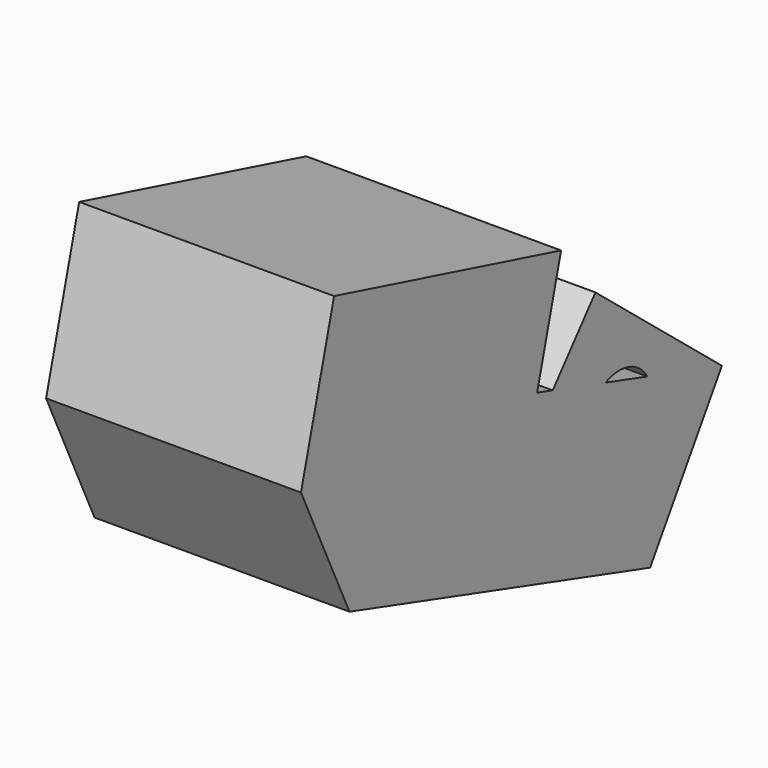
from build123d import *

# Parameters (mm, degrees)
F0_R     = 27.2385686344
F1_DEPTH = 168.578363955
F2_DEPTH = 106.8018544465


with BuildPart() as f1:
    # F0 (on Right) → F1 (new body)
    with BuildSketch(Plane.YZ):
        Polygon((42.5867140293, 80.6694477797), (-13.1449922919, 13.4008079767), (-200.8079886436, 63.1083771586), (-160.7436537743, -22.5856415927), (87.7742916346, -97.9538932443), (147.1385359764, -4.5265853405), align=None)
        with Locations((62.3324811459, 0)):
            Circle(F0_R, mode=Mode.SUBTRACT)
    extrude(amount=F1_DEPTH)

    # F2 (add): faces of the model
    f2_faces = [f1.faces().sort_by_distance(p)[0] for p in [
        (84.2891819775, -106.9764904678, 38.2545925677),
        (84.2891819775, -36.4846810699, -60.2697674185),
    ]]
    extrude(f2_faces, amount=F2_DEPTH, dir=(0, 0.2560469353, 0.9666643507))


solid = f1.part
